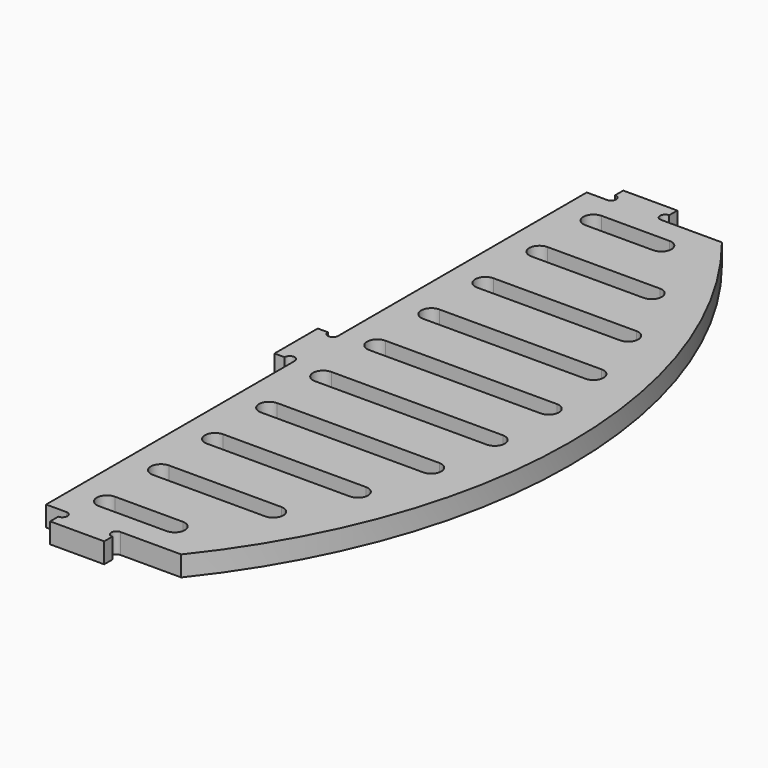
from build123d import *

# Parameters (mm, degrees)
PAD002_DEPTH       = 3
POCKET004_DEPTH    = 3.001
POCKET003006_DEPTH = 3.001


with BuildPart() as part:
    # Sketch006 → Pad002 (new body)
    with BuildSketch(Plane.XY):
        with BuildLine():
            Line((79, -10), (56, -10))
            Line((56, -10), (56, -116))
            Line((56, -116), (79, -116))
            Line((79, -116), (79, -113))
            ThreePointArc((79, -113), (96.55002, -63), (79, -13))
            Line((79, -10), (79, -13))
        make_face()
    extrude(amount=PAD002_DEPTH)

    # Sketch007 → Pocket004 (cut, through all)
    with BuildSketch(Plane.XY.offset(3)):
        with BuildLine():
            Line((79, -10), (70, -10))
            Line((70, -10), (70, -11.498))
            ThreePointArc((70, -11.498), (69.249, -12.249), (70, -13))
            Line((70, -13), (79, -13))
            Line((79, -13), (79, -10))
        make_face()
        with BuildLine():
            Line((62, -13), (59, -13))
            Line((59, -13), (59, -59))
            ThreePointArc((57.498, -59), (58.249, -59.751), (59, -59))
            Line((57.498, -59), (56, -59))
            Line((56, -10), (56, -59))
            Line((62, -10), (56, -10))
            Line((62, -10), (62, -11.498))
            ThreePointArc((62, -13), (62.751, -12.249), (62, -11.498))
        make_face()
        with BuildLine():
            Line((79, -116), (70, -116))
            Line((70, -114.502), (70, -116))
            ThreePointArc((70, -113), (69.249, -113.751), (70, -114.502))
            Line((70, -113), (79, -113))
            Line((79, -113), (79, -116))
        make_face()
        with BuildLine():
            Line((62, -113), (59, -113))
            Line((59, -113), (59, -67))
            ThreePointArc((59, -67), (58.249, -66.249), (57.498, -67))
            Line((56, -67), (57.498, -67))
            Line((56, -67), (56, -116))
            Line((56, -116), (62, -116))
            Line((62, -114.502), (62, -116))
            ThreePointArc((62, -114.502), (62.751, -113.751), (62, -113))
        make_face()
    extrude(amount=-POCKET004_DEPTH, mode=Mode.SUBTRACT)

    # Sketch001006 → Pocket003006 (cut, through all)
    with BuildSketch(Plane.XY.offset(3)):
        with BuildLine():
            Line((64, -109.5), (74.030451, -109.5))
            ThreePointArc((74.030451, -109.5), (75.530451, -108), (74.030451, -106.5))
            Line((64, -106.5), (74.030451, -106.5))
            ThreePointArc((64, -106.5), (62.5, -108), (64, -109.5))
        make_face()
        with BuildLine():
            Line((64, -96.5), (80.61249, -96.5))
            ThreePointArc((80.61249, -99.5), (82.11249, -98), (80.61249, -96.5))
            Line((64, -99.5), (80.61249, -99.5))
            ThreePointArc((64, -96.5), (62.5, -98), (64, -99.5))
        make_face()
        with BuildLine():
            Line((64, -86.5), (85.135733, -86.5))
            ThreePointArc((85.135733, -89.5), (86.635733, -88), (85.135733, -86.5))
            Line((64, -89.5), (85.135733, -89.5))
            ThreePointArc((64, -86.5), (62.5, -88), (64, -89.5))
        make_face()
        with BuildLine():
            Line((64, -76.5), (87.992304, -76.5))
            ThreePointArc((87.992304, -79.5), (89.492304, -78), (87.992304, -76.5))
            Line((64, -79.5), (87.992304, -79.5))
            ThreePointArc((64, -76.5), (62.5, -78), (64, -79.5))
        make_face()
        with BuildLine():
            Line((64, -69.5), (89.378586, -69.5))
            ThreePointArc((89.378586, -69.5), (90.878586, -68), (89.378586, -66.5))
            Line((64, -66.5), (89.378586, -66.5))
            ThreePointArc((64, -66.5), (62.5, -68), (64, -69.5))
        make_face()
        with BuildLine():
            Line((64, -59.5), (89.378586, -59.5))
            ThreePointArc((89.378586, -59.5), (90.878586, -58), (89.378586, -56.5))
            Line((64, -56.5), (89.378586, -56.5))
            ThreePointArc((64, -56.5), (62.5, -58), (64, -59.5))
        make_face()
        with BuildLine():
            Line((64, -49.5), (87.992304, -49.5))
            ThreePointArc((87.992304, -49.5), (89.492304, -48), (87.992304, -46.5))
            Line((64, -46.5), (87.992304, -46.5))
            ThreePointArc((64, -46.5), (62.5, -48), (64, -49.5))
        make_face()
        with BuildLine():
            Line((64, -39.5), (85.135733, -39.5))
            ThreePointArc((85.135733, -39.5), (86.635733, -38), (85.135733, -36.5))
            Line((64, -36.5), (85.135733, -36.5))
            ThreePointArc((64, -36.5), (62.5, -38), (64, -39.5))
        make_face()
        with BuildLine():
            Line((64, -26.5), (80.61249, -26.5))
            ThreePointArc((80.61249, -29.5), (82.11249, -28), (80.61249, -26.5))
            Line((64, -29.5), (80.61249, -29.5))
            ThreePointArc((64, -26.5), (62.5, -28), (64, -29.5))
        make_face()
        with BuildLine():
            Line((64, -16.5), (74.030451, -16.5))
            ThreePointArc((74.030451, -19.5), (75.530451, -18), (74.030451, -16.5))
            Line((64, -19.5), (74.030451, -19.5))
            ThreePointArc((64, -16.5), (62.5, -18), (64, -19.5))
        make_face()
    extrude(amount=-POCKET003006_DEPTH, mode=Mode.SUBTRACT)


solid = part.part
